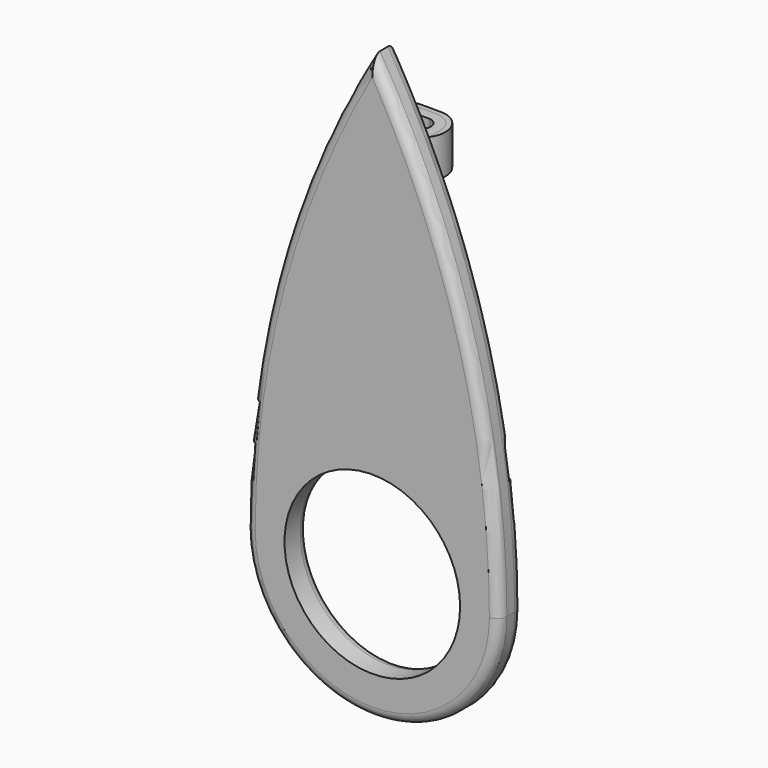
from build123d import *

# Parameters (mm, degrees)
PAD_DEPTH    = 4
PAD001_DEPTH = 4
SKETCH002_R  = 9
PAD002_DEPTH = 3
SKETCH005_W  = 3
SKETCH005_H  = 7
PAD003_DEPTH = 4
FILLET_R     = 1
FILLET001_R  = 2
SKETCH004_R  = 1.15
POCKET_DEPTH = 5


with BuildPart() as squeezebody:
    # Sketch → Pad (new body)
    with BuildSketch(Plane.XY):
        with BuildLine():
            ThreePointArc((-1, 2.5), (-3.5, 0), (-1, -2.5))
            Line((-1, -2.5), (1, -2.5))
            ThreePointArc((1, -2.5), (3.499999, 0), (1, 2.5))
            Line((-1, 2.5), (1, 2.5))
        make_face()
        with BuildLine():
            ThreePointArc((-1, 1), (-2, 0), (-1, -1))
            Line((-1, -1), (0.999999, -1))
            ThreePointArc((0.999999, -1), (1.999999, 0), (1, 1))
            Line((-1, 1), (1, 1))
        make_face(mode=Mode.SUBTRACT)
    extrude(amount=PAD_DEPTH)


with BuildPart() as obj1:
    # Sketch001 → Pad001 (new body)
    with BuildSketch(Plane.XY):
        with BuildLine():
            ThreePointArc((-1, 2), (-2.402883, 1.402883), (-3, 0))
            Line((-3, 0), (-3, -2))
            Line((-3, -2), (3, -2))
            Line((3, -2), (3, 0))
            ThreePointArc((3, 0), (2.402883, 1.402883), (1, 2))
            Line((-1, 2), (1, 2))
        make_face()
        with BuildLine():
            ThreePointArc((-1, 1), (-2, 0), (-1, -1))
            Line((-1, -1), (0.999999, -1))
            ThreePointArc((0.999999, -1), (2, 0), (1, 1))
            Line((-1, 1), (1, 1))
        make_face(mode=Mode.SUBTRACT)
    extrude(amount=PAD001_DEPTH)

    # Sketch002 → Pad002 (join)
    with BuildSketch(Plane.XZ.offset(2)):
        with BuildLine():
            ThreePointArc((-13, -35), (0, -48), (13, -35))
            ThreePointArc((13, -35), (9.689615, -10.713996), (0, 11.8))
            ThreePointArc((0, 11.8), (-9.689615, -10.713996), (-13, -35))
        make_face()
        with Locations((0, -35)):
            Circle(SKETCH002_R, mode=Mode.SUBTRACT)
    extrude(amount=PAD002_DEPTH)

    # Sketch005 (on Face4 of Pad002) → Pad003 (join)
    with BuildSketch(Plane(origin=(0, -2, 0), x_dir=(-1, 0, 0), z_dir=(0, 1, 0))):
        with Locations((0, -7.5)):
            Rectangle(SKETCH005_W, SKETCH005_H)
    extrude(amount=PAD003_DEPTH)

    # Fillet
    fillet_edges = [obj1.edges().sort_by_distance(p)[0] for p in [
        (-9.689615, -2, -10.713996),
        (9.689615, -2, -10.713996),
        (0, -2, -48),
        (-9, -2, -35),
        (9.689615, -5, -10.713996),
        (0, -5, -48),
        (-9.689615, -5, -10.713996),
    ]]
    fillet(fillet_edges, radius=FILLET_R)

    # Fillet001
    fillet001_edges = [obj1.edges().sort_by_distance(p)[0] for p in [
        (0, 2, -11),
        (0, 2, -4),
    ]]
    fillet(fillet001_edges, radius=FILLET001_R)

    # Sketch004 → Pocket (cut)
    with BuildSketch(Plane(origin=(-1.5, 0, 0), x_dir=(0, -1, 0), z_dir=(-1, 0, 0))):
        with Locations((0, -6)):
            Circle(SKETCH004_R)
        with Locations((0, -9)):
            Circle(SKETCH004_R)
    extrude(amount=-POCKET_DEPTH, mode=Mode.SUBTRACT)


solid = Compound([squeezebody.part, obj1.part])
